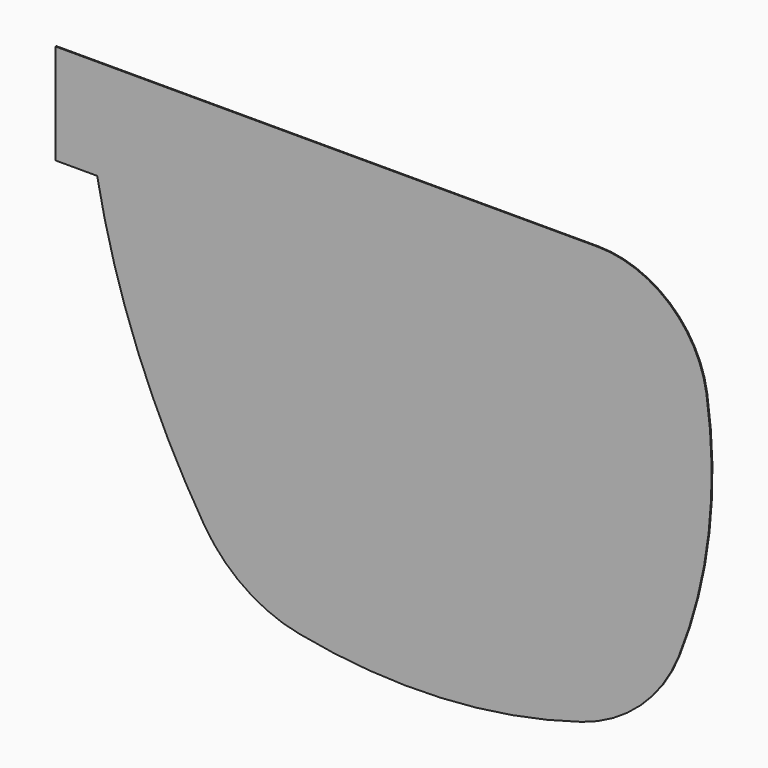
from build123d import *

# Parameters (mm, degrees)
F1_DEPTH = 0.1


with BuildPart() as f1:
    # F0 (on Front) → F1 (new body)
    with BuildSketch(Plane.XZ):
        with BuildLine():
            Line((56, -2), (2, -2))
            Line((2, -2), (2, -12))
            Line((2, -12), (6.141136, -12))
            ThreePointArc((6.141136, -12), (10.197054, -26.094991), (16.819916, -39.181508))
            ThreePointArc((16.819916, -39.181508), (20.840447, -43.365146), (26.185783, -45.622329))
            ThreePointArc((26.185783, -45.622329), (40.395564, -46.669439), (54.431857, -44.220605))
            ThreePointArc((54.431857, -44.220605), (60.281606, -40.876074), (64.110749, -35.331427))
            ThreePointArc((64.110749, -35.331427), (67.098581, -23.520382), (66.873925, -11.339354))
            ThreePointArc((66.873925, -11.339354), (63.167039, -4.655328), (56, -2))
        make_face()
    extrude(amount=-F1_DEPTH)


solid = f1.part
